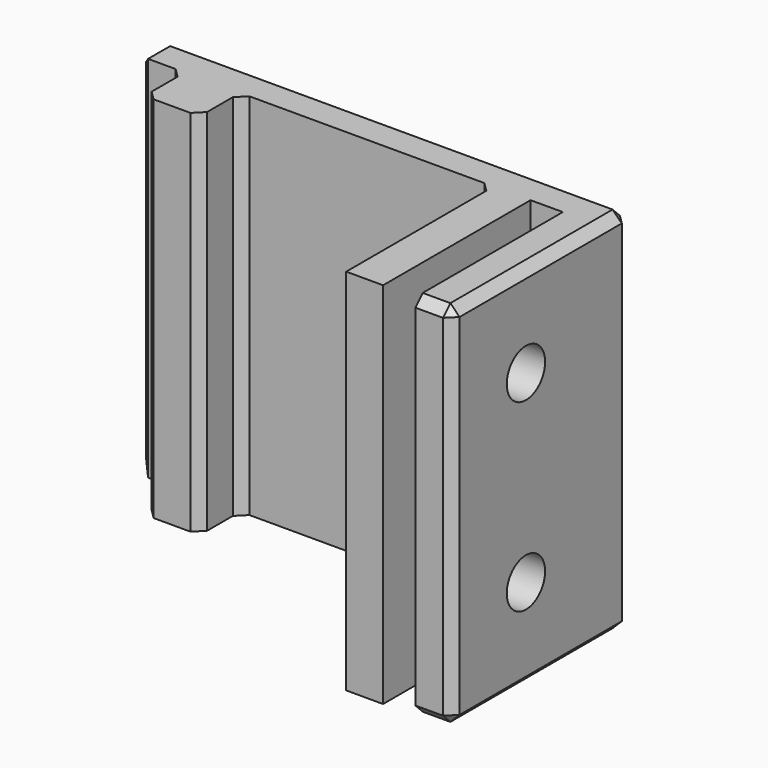
from build123d import *

# Parameters (mm, degrees)
F0_W           = 4
F0_H           = 20
F0_W_2         = 6
F0_H_2         = 5.5
F1_DEPTH       = 40
F2_SIZE        = 1
F4_D           = 4.6
F4_DEPTH       = 12
F4_CBORE_D     = 5.2
F4_CBORE_DEPTH = 6


with BuildPart() as f1:
    # F0 (on Top) → F1 (new body)
    with BuildSketch(Plane.XY):
        Polygon((-8.815112, 20.990383), (-58.815112, 20.990383), (-58.815112, 16.990383), (-53.815112, 16.990383), (-47.815112, 16.990383), (-20.315112, 16.990383), (-16.315112, 16.990383), (-12.815112, 16.990383), (-8.815112, 16.990383), align=None)
        with Locations((-10.815112, 6.990383)):
            Rectangle(F0_W, F0_H)
        with Locations((-50.815112, 14.240383)):
            Rectangle(F0_W_2, F0_H_2)
        with Locations((-18.315112, 6.990383)):
            Rectangle(F0_W, F0_H)
    extrude(amount=F1_DEPTH)

    # F2
    f2_edges = [f1.edges().sort_by_distance(p)[0] for p in [
        (-47.815112, 16.990383, 20),
        (-53.815112, 16.990383, 20),
        (-53.815112, 11.490383, 20),
        (-58.815112, 16.990383, 20),
        (-58.815112, 20.990383, 20),
        (-8.815112, 20.990383, 20),
        (-8.815112, -3.009617, 20),
        (-33.815112, 20.990383, 40),
        (-33.815112, 20.990383, 0),
        (-20.315112, 16.990383, 20),
        (-8.815112, 8.990383, 40),
        (-8.815112, 8.990383, 0),
        (-58.815112, 18.990383, 40),
        (-58.815112, 18.990383, 0),
        (-47.815112, 11.490383, 20),
        (-10.815112, -3.009617, 0),
        (-10.815112, -3.009617, 40),
    ]]
    chamfer(f2_edges, length=F2_SIZE)

    # F4
    with Locations(Plane.YZ.offset(-8.815112)):
        with Locations((6.990383, 10), (6.990383, 30)):
            CounterBoreHole(F4_D / 2, F4_CBORE_D / 2, F4_CBORE_DEPTH, depth=F4_DEPTH)


solid = f1.part
